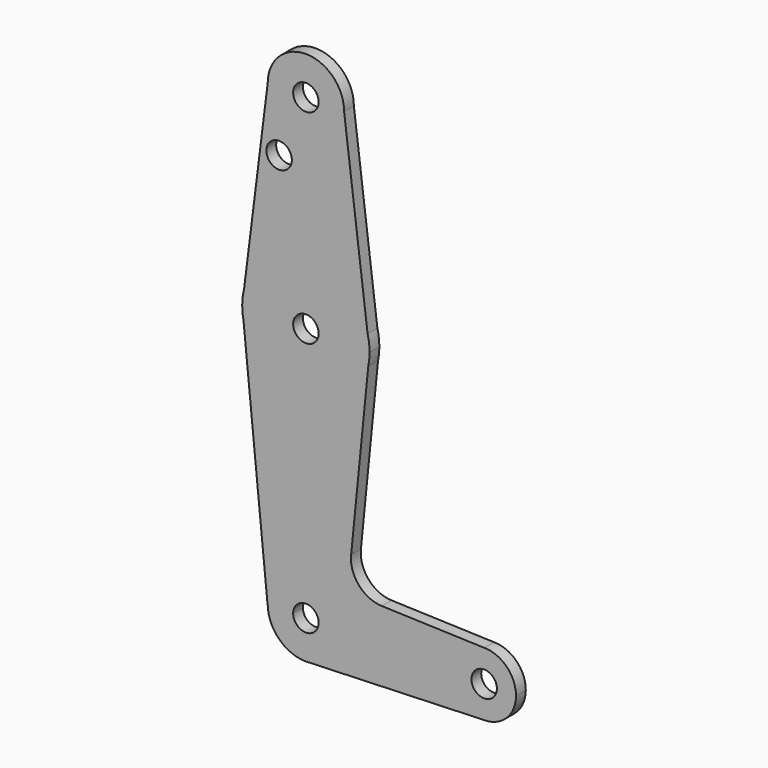
from build123d import *

# Parameters (mm, degrees)
F0_R     = 3.175
F1_DEPTH = 3.048


with BuildPart() as f1:
    # F0 (on Front) → F1 (new body)
    with BuildSketch(Plane.XZ):
        with BuildLine():
            Line((9.525, 0), (3.175, 0))
            ThreePointArc((3.175, 0), (0, -3.175), (-3.175, 0))
            Line((-3.175, 0), (-9.525, 0))
            ThreePointArc((-9.525, 0), (-6.7351920908, -6.7351920908), (0, -9.525))
            Line((0, -9.525), (0.6794904459, -9.5007324841))
            ThreePointArc((0.6794904459, -9.5007324841), (6.9712901065, -6.4905114784), (9.525, 0))
        make_face()
        with BuildLine():
            Line((-9.525, 0), (-3.175, 0))
            ThreePointArc((-3.175, 0), (-2.3533341046, 2.1313009154), (-0.3136182097, 3.1594728387))
            Line((-0.3136182097, 3.1594728387), (-0.940854629, 9.4784185161))
            ThreePointArc((-0.940854629, 9.4784185161), (-7.0600023138, 6.3939027463), (-9.525, 0))
        make_face()
        with BuildLine():
            ThreePointArc((-0.940854629, 9.4784185161), (6.3939027463, 7.0600023138), (9.525, 0))
            Line((9.525, 0), (36.5125, 0))
            ThreePointArc((36.5125, 0), (38.8373399243, 5.6126600757), (44.45, 7.9375))
            Line((44.45, 7.9375), (18.9200965267, 8.8041834167))
            ThreePointArc((18.9200965267, 8.8041834167), (13.2054750607, 11.5159603371), (11.279088073, 17.5408807299))
            Line((11.279088073, 17.5408807299), (15.5606435644, 60.3564356436))
            ThreePointArc((15.5606435644, 60.3564356436), (-0.0115875772, 47.625004229), (-15.5652161214, 60.3791552277))
            Line((-15.5652161214, 60.3791552277), (-9.5718104076, 0))
            Line((-9.5718104076, 0), (-9.525, 0))
            ThreePointArc((-9.525, 0), (-7.0600023138, 6.3939027463), (-0.940854629, 9.4784185161))
        make_face()
        with BuildLine():
            Line((36.5125, 0), (9.525, 0))
            ThreePointArc((9.525, 0), (6.9712901065, -6.4905114784), (0.6794904459, -9.5007324841))
            Line((0.6794904459, -9.5007324841), (44.45, -7.9375))
            ThreePointArc((44.45, -7.9375), (38.8373399243, -5.6126600757), (36.5125, 0))
        make_face()
        with BuildLine():
            ThreePointArc((44.45, 7.9375), (38.8373399243, 5.6126600757), (36.5125, 0))
            ThreePointArc((36.5125, 0), (38.8373399243, -5.6126600757), (44.45, -7.9375))
            ThreePointArc((44.45, -7.9375), (50.0626600757, -5.6126600757), (52.3875, 0))
            ThreePointArc((52.3875, 0), (50.0626600757, 5.6126600757), (44.45, 7.9375))
        make_face()
        with BuildLine():
            ThreePointArc((47.625, 0), (44.45, -3.175), (41.275, 0))
            ThreePointArc((41.275, 0), (44.45, 3.175), (47.625, 0))
        make_face(mode=Mode.SUBTRACT)
        with BuildLine():
            ThreePointArc((0, -9.525), (0.3399618281, -9.5189311877), (0.6794904459, -9.5007324841))
            Line((0.6794904459, -9.5007324841), (0, -9.525))
        make_face()
        with BuildLine():
            Line((-15.875, 63.5), (-15.5652161214, 60.3791552277))
            ThreePointArc((-15.5652161214, 60.3791552277), (-0.0115875772, 47.625004229), (15.5606435644, 60.3564356436))
            Line((15.5606435644, 60.3564356436), (15.875, 63.5))
            Line((15.875, 63.5), (15.3865384615, 67.4076923077))
            ThreePointArc((15.3865384615, 67.4076923077), (0, 79.375), (-15.3865384615, 67.4076923077))
            Line((-15.3865384615, 67.4076923077), (-15.875, 63.5))
        make_face()
        with Locations((0, 63.5)):
            Circle(F0_R, mode=Mode.SUBTRACT)
        with BuildLine():
            ThreePointArc((-15.875, 63.5), (-15.7973641936, 61.9319089516), (-15.5652161214, 60.3791552277))
            Line((-15.5652161214, 60.3791552277), (-15.875, 63.5))
        make_face()
        with BuildLine():
            ThreePointArc((-15.3865384615, 67.4076923077), (-15.7524112928, 65.4690514116), (-15.875, 63.5))
            Line((-15.875, 63.5), (-15.3865384615, 67.4076923077))
        make_face()
        with BuildLine():
            Line((15.875, 63.5), (15.5606435644, 60.3564356436))
            ThreePointArc((15.5606435644, 60.3564356436), (15.7962153946, 61.9203784605), (15.875, 63.5))
        make_face()
        with BuildLine():
            Line((-9.525, 114.3), (-15.3865384615, 67.4076923077))
            ThreePointArc((-15.3865384615, 67.4076923077), (0, 79.375), (15.3865384615, 67.4076923077))
            Line((15.3865384615, 67.4076923077), (9.525, 114.3))
            ThreePointArc((9.525, 114.3), (0, 104.775), (-9.525, 114.3))
        make_face()
        with Locations((-6.6770848093, 99.4097030549)):
            Circle(F0_R, mode=Mode.SUBTRACT)
        with BuildLine():
            Line((15.3865384615, 67.4076923077), (15.875, 63.5))
            ThreePointArc((15.875, 63.5), (15.7524112928, 65.4690514116), (15.3865384615, 67.4076923077))
        make_face()
        with BuildLine():
            ThreePointArc((9.525, 114.3), (0, 123.825), (-9.525, 114.3))
            ThreePointArc((-9.525, 114.3), (0, 104.775), (9.525, 114.3))
        make_face()
        with Locations((0, 114.3)):
            Circle(F0_R, mode=Mode.SUBTRACT)
        with BuildLine():
            ThreePointArc((-0.3136182097, 3.1594728387), (2.1313009154, 2.3533341046), (3.175, 0))
            Line((3.175, 0), (9.525, 0))
            ThreePointArc((9.525, 0), (6.3939027463, 7.0600023138), (-0.940854629, 9.4784185161))
            Line((-0.940854629, 9.4784185161), (-0.3136182097, 3.1594728387))
        make_face()
    extrude(amount=F1_DEPTH)


solid = f1.part
